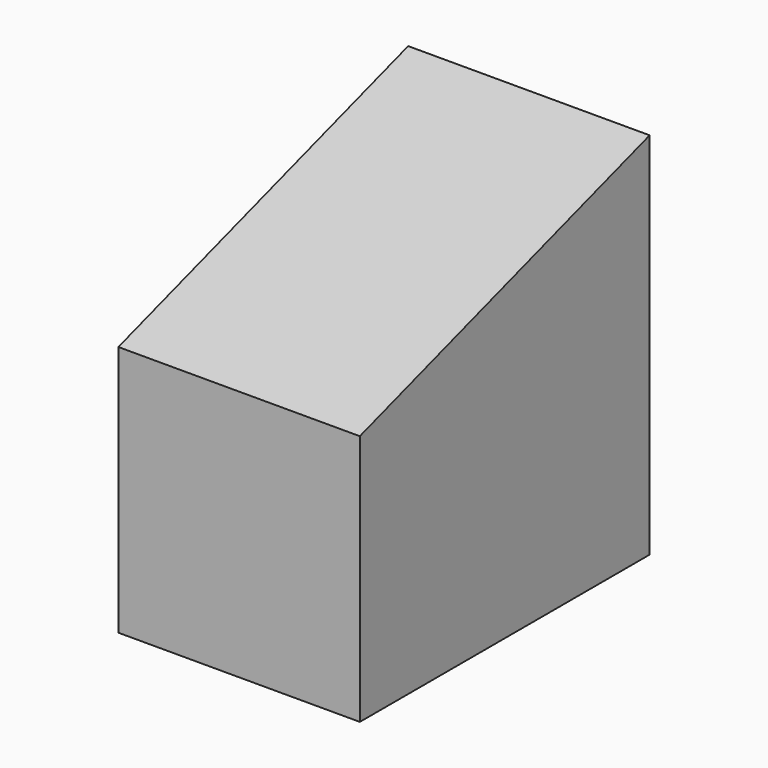
from build123d import *

# Parameters (mm, degrees)
F0_W     = 609.6
F0_H     = 914.4
F1_DEPTH = 635
F3_DEPTH = 609.6


with BuildPart() as f1:
    # F0 (on Top) → F1 (new body)
    with BuildSketch(Plane.XY):
        with Locations((304.8, -457.2)):
            Rectangle(F0_W, F0_H)
    extrude(amount=F1_DEPTH)

    # F2 (on face) → F3 (join)
    with BuildSketch(Plane.YZ.offset(609.6)):
        Polygon((0, 932.10657), (-914.4, 635), (0, 635), align=None)
    extrude(amount=-F3_DEPTH)


solid = f1.part
